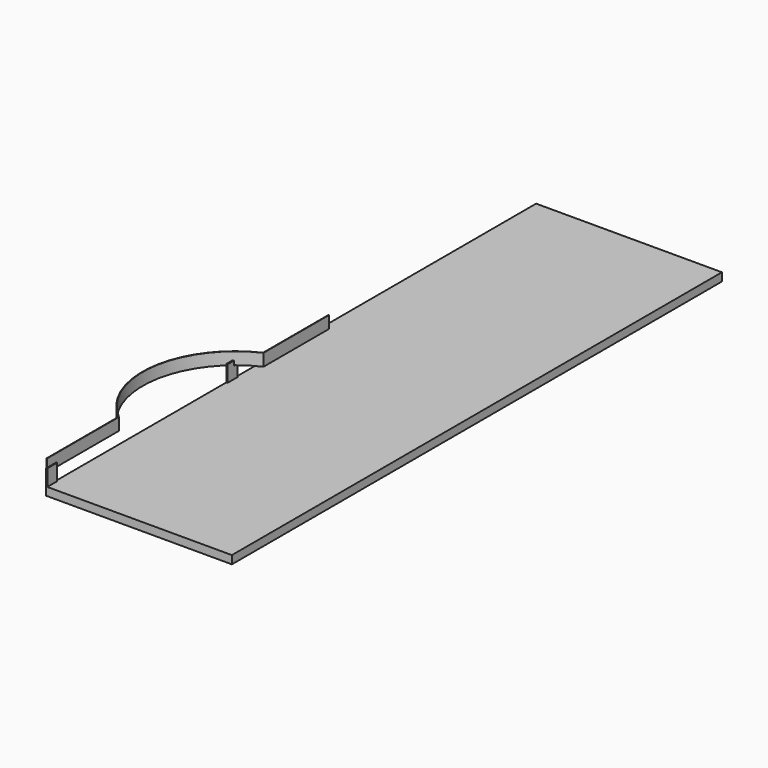
from build123d import *

# Parameters (mm, degrees)
F0_W     = 455
F0_H     = 1500
F1_DEPTH = 20
F7_DEPTH = 30
F8_W     = 30
F8_H     = 40
F9_DEPTH = 3


with BuildPart() as f1:
    # F0 (on Top) → F1 (new body)
    with BuildSketch(Plane.XY):
        with Locations((227.5, 750)):
            Rectangle(F0_W, F0_H)
    extrude(amount=F1_DEPTH)


with BuildPart() as f7:
    # F6 (on offset) → F7 (new body)
    with BuildSketch(Plane.XY.offset(50)):
        with BuildLine():
            Line((50, 801.814826), (50, 601.814826))
            ThreePointArc((50, 601.814826), (-79.056404, 425.506458), (0, 221.814826))
            Line((0, 221.814826), (0, 1.814826))
            Line((0, 1.814826), (1, 1.814826))
            Line((1, 1.814826), (1, 221.814826))
            ThreePointArc((1, 221.814826), (-78.056404, 425.506458), (51, 601.814826))
            Line((51, 601.814826), (51, 801.814826))
            Line((51, 801.814826), (50, 801.814826))
        make_face()
    extrude(amount=F7_DEPTH)


with BuildPart() as f9:
    # F8 (on Right) → F9 (new body)
    with BuildSketch(Plane.YZ):
        with Locations((15, 40)):
            Rectangle(F8_W, F8_H)
        with Locations((567.128553, 40)):
            Rectangle(F8_W, F8_H)
    extrude(amount=F9_DEPTH)


solid = Compound([f1.part, f7.part, f9.part])
